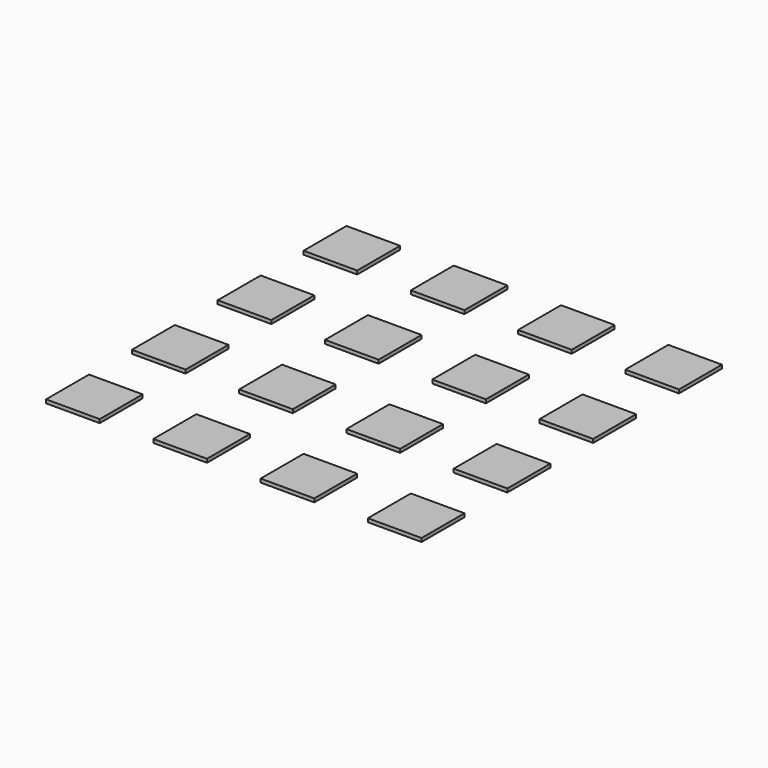
from build123d import *

# Parameters (mm, degrees)
SKETCH017_W      = 30
SKETCH017_H      = 30
PAD003_DEPTH     = 2
ARRAY005_X_COUNT = 4
ARRAY005_X_PITCH = 60
ARRAY005_Y_COUNT = 4
ARRAY005_Y_PITCH = 60


with BuildPart() as part:
    # Sketch017 → Pad003 (new body)
    with BuildSketch(Plane.XY):
        with Locations((0, 30)):
            Rectangle(SKETCH017_W, SKETCH017_H)
    extrude(amount=-PAD003_DEPTH)

    # Array005 X: part ×4


with BuildPart() as part_1:
    add(part.part)
    with Locations(*[(i * ARRAY005_X_PITCH, 0, 0) for i in range(1, ARRAY005_X_COUNT)]):
        add(part.part)

    # Array005 Y: part ×4


with BuildPart() as part_2:
    add(part_1.part)
    with Locations(*[(0, i * ARRAY005_Y_PITCH, 0) for i in range(1, ARRAY005_Y_COUNT)]):
        add(part_1.part)


solid = part_2.part
